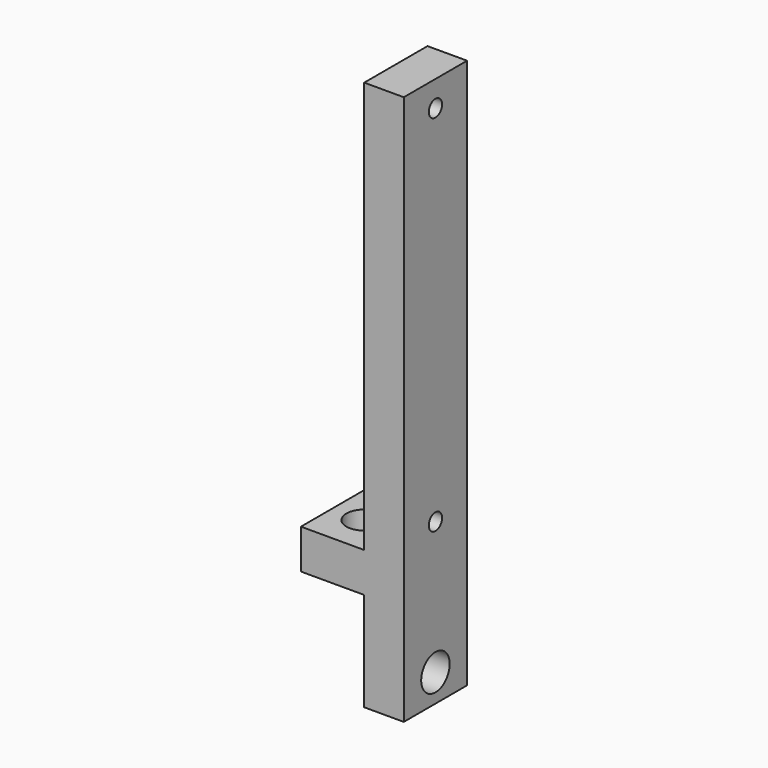
from build123d import *

# Parameters (mm, degrees)
F1_DEPTH = 20
F3_D     = 9
F5_D     = 9
F7_D     = 4.2


with BuildPart() as f1:
    # F0 (on Front) → F1 (new body)
    with BuildSketch(Plane.XZ):
        Polygon((0, 104), (0, 0), (-16, 0), (-16, -10), (0, -10), (0, -35), (10, -35), (10, 104), align=None)
    extrude(amount=F1_DEPTH)

    # F3 (through all)
    with Locations(Plane.XY):
        with Locations((-8, -10)):
            Hole(F3_D / 2)

    # F5 (through all)
    with Locations(Plane.YZ.offset(10)):
        with Locations((-10, -28)):
            Hole(F5_D / 2)

    # F7 (through all)
    with Locations(Plane.YZ.offset(10)):
        with Locations((-10, 97.5), (-10, 5.5)):
            Hole(F7_D / 2)


solid = f1.part
